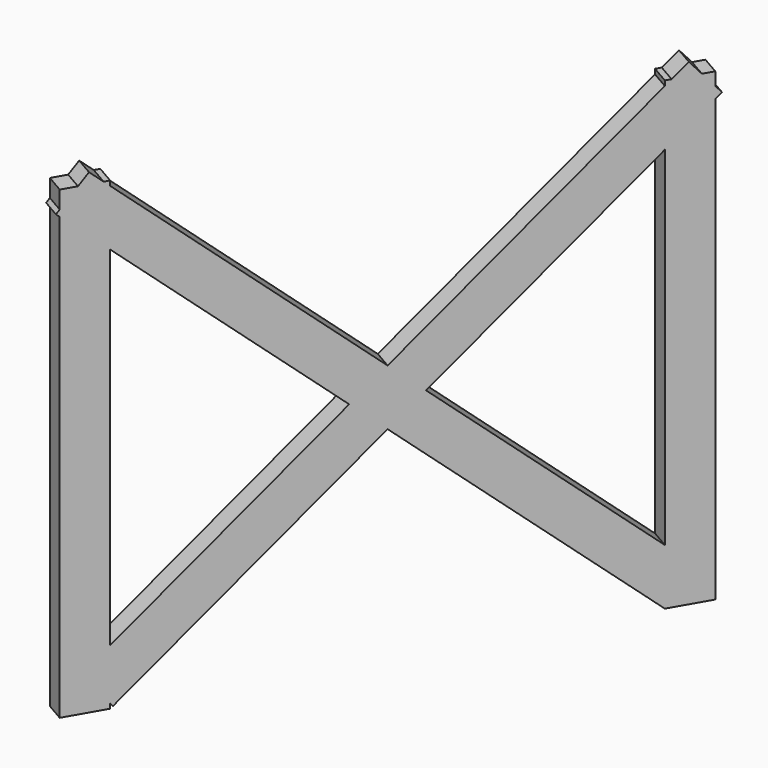
from build123d import *

# Parameters (mm, degrees)
BOX220_W                  = 0.5
BOX220_H                  = 1
BOX220_DEPTH              = 11
BOX221_W                  = 0.5
BOX221_H                  = 1
BOX221_DEPTH              = 16
BOX221_ROLL_ANGLE         = 49
BOX222_W                  = 0.5
BOX222_H                  = 1
BOX222_DEPTH              = 16
BOX222_ROLL_ANGLE         = -49
BOX219_W                  = 0.5
BOX219_H                  = 1
BOX219_DEPTH              = 11
FUSION017_PLACEMENT_ANGLE = 30


with BuildPart() as cubo220:
    # Box220 → Box220 (new body)
    with BuildSketch(Plane(origin=(0, 12, 0.5), x_dir=(1, 0, 0), z_dir=(0, 0, 1))):
        with Locations((0.25, 0.5)):
            Rectangle(BOX220_W, BOX220_H)
    extrude(amount=BOX220_DEPTH)


with BuildPart() as cubo221:
    # Box221 → Box221 (new body)
    with BuildSketch(Plane.XY):
        with Locations((0.25, 0.5)):
            Rectangle(BOX221_W, BOX221_H)
    extrude(amount=BOX221_DEPTH)


with BuildPart() as cubo221_1:
    # Box221 roll: moved
    add(cubo221.part.rotate(Axis((0, 0, 0), (1, 0, 0)), BOX221_ROLL_ANGLE))


with BuildPart() as cubo221_2:
    # Box221 placement: moved
    add(cubo221_1.part.moved(Location((0, 12, 0.5))))


with BuildPart() as cubo222:
    # Box222 → Box222 (new body)
    with BuildSketch(Plane.XY):
        with Locations((0.25, 0.5)):
            Rectangle(BOX222_W, BOX222_H)
    extrude(amount=BOX222_DEPTH)


with BuildPart() as cubo222_1:
    # Box222 roll: moved
    add(cubo222.part.rotate(Axis((0, 0, 0), (1, 0, 0)), BOX222_ROLL_ANGLE))


with BuildPart() as cubo222_2:
    # Box222 placement: moved
    add(cubo222_1.part.moved(Location((0, 0.4, 1.3))))


with BuildPart() as fusion017:
    # Box219 → Box219 (new body)
    with BuildSketch(Plane.XY.offset(0.5)):
        with Locations((0.25, 0.5)):
            Rectangle(BOX219_W, BOX219_H)
    extrude(amount=BOX219_DEPTH)

    # Fusion017: union Cubo220, Cubo221, Cubo222
    add(cubo220.part)
    add(cubo221_2.part)
    add(cubo222_2.part)


with BuildPart() as fusion017_1:
    # Fusion017 placement: moved
    add(fusion017.part.moved(Location((-210.5, 102.8, 0))).rotate(Axis((-210.5, 102.8, 0), (0, 0, -1)), FUSION017_PLACEMENT_ANGLE))


solid = fusion017_1.part
